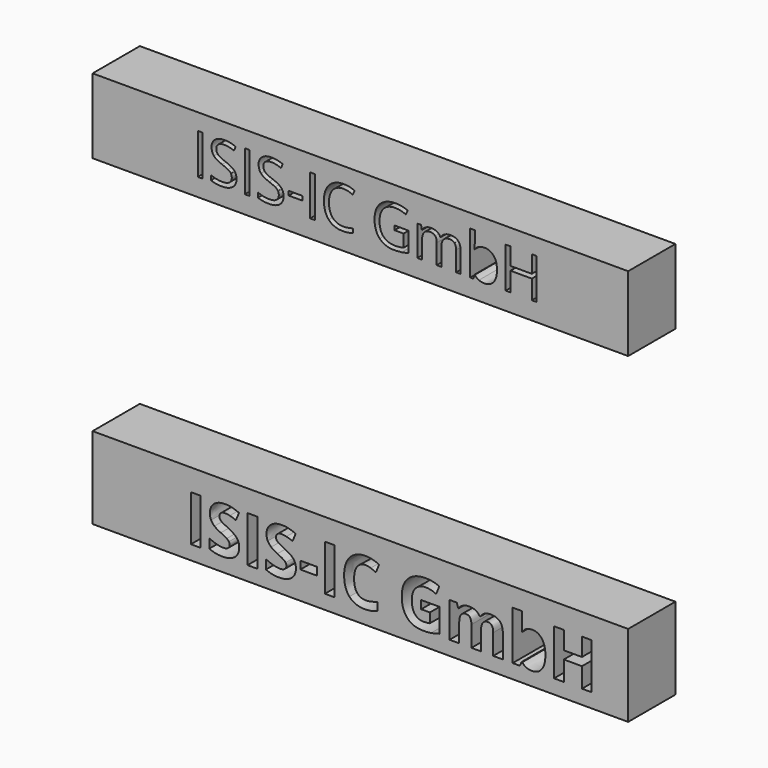
from build123d import *

# Parameters (mm, degrees)
F0_W     = 99.7226089239
F0_H     = 13.9147862792
F0_W_2   = 0.8780858625
F0_H_2   = 7.5555071671
F0_W_3   = 2.5366924917
F0_H_3   = 0.7854817037
F1_DEPTH = 11
F0_H_4   = 15.2399986982
F0_W_4   = 1.8113891286
F0_H_5   = 8.5410081823
F0_W_5   = 3.1367502145
F0_H_6   = 1.4599534669
F2_DEPTH = 11


with BuildPart() as f1:
    # F0 (on Front) → F1 (new body)
    with BuildSketch(Plane.XZ):
        with Locations((0, 37.106089294)):
            Rectangle(F0_W, F0_H)
        with Locations((-29.8307273891, 37.2394919614)):
            Rectangle(F0_W_2, F0_H_2, mode=Mode.SUBTRACT)
        with BuildLine():
            add(Edge.make_bspline(
                [(-23.5030521483, 36.7326495567), (-23.0565678115, 36.2464777233), (-23.0565678115, 35.4725715394)],
                knots=[0, 0, 0, 1, 1, 1], degree=2))
            add(Edge.make_bspline(
                [(-23.0565678115, 35.4725715394), (-23.0565678115, 34.4754231871), (-23.7800378018, 33.9164909431)],
                knots=[0, 0, 0, 1, 1, 1], degree=2))
            add(Edge.make_bspline(
                [(-23.7800378018, 33.9164909431), (-24.5035077921, 33.3575586992), (-25.7437420611, 33.3575586992)],
                knots=[0, 0, 0, 1, 1, 1], degree=2))
            add(Edge.make_bspline(
                [(-25.7437420611, 33.3575586992), (-27.0865023631, 33.3575586992), (-27.8107991762, 33.7048242945)],
                knots=[0, 0, 0, 1, 1, 1], degree=2))
            Line((-27.8107991762, 33.7048242945), (-27.8107991762, 34.5514908889))
            add(Edge.make_bspline(
                [(-27.8107991762, 34.5514908889), (-27.3444710911, 34.3563606972), (-26.797114367, 34.2422591445)],
                knots=[0, 0, 0, 1, 1, 1], degree=2))
            add(Edge.make_bspline(
                [(-26.797114367, 34.2422591445), (-26.2497576429, 34.1281575917), (-25.712322793, 34.1281575917)],
                knots=[0, 0, 0, 1, 1, 1], degree=2))
            add(Edge.make_bspline(
                [(-25.712322793, 34.1281575917), (-24.8342369305, 34.1281575917), (-24.3894062393, 34.4613671987)],
                knots=[0, 0, 0, 1, 1, 1], degree=2))
            add(Edge.make_bspline(
                [(-24.3894062393, 34.4613671987), (-23.9445755481, 34.7945768056), (-23.9445755481, 35.3898892548)],
                knots=[0, 0, 0, 1, 1, 1], degree=2))
            add(Edge.make_bspline(
                [(-23.9445755481, 35.3898892548), (-23.9445755481, 35.7818032838), (-24.1024987117, 36.0323306062)],
                knots=[0, 0, 0, 1, 1, 1], degree=2))
            add(Edge.make_bspline(
                [(-24.1024987117, 36.0323306062), (-24.2604218753, 36.2828579285), (-24.6300116875, 36.4953513999)],
                knots=[0, 0, 0, 1, 1, 1], degree=2))
            add(Edge.make_bspline(
                [(-24.6300116875, 36.4953513999), (-24.9996014997, 36.7078448714), (-25.7536639353, 36.9757354735)],
                knots=[0, 0, 0, 1, 1, 1], degree=2))
            add(Edge.make_bspline(
                [(-25.7536639353, 36.9757354735), (-26.8070362411, 37.3527666913), (-27.2593083379, 37.8695309701)],
                knots=[0, 0, 0, 1, 1, 1], degree=2))
            add(Edge.make_bspline(
                [(-27.2593083379, 37.8695309701), (-27.7115804347, 38.3862952488), (-27.7115804347, 39.2180790319)],
                knots=[0, 0, 0, 1, 1, 1], degree=2))
            add(Edge.make_bspline(
                [(-27.7115804347, 39.2180790319), (-27.7115804347, 40.0912039574), (-27.0559099178, 40.6079682361)],
                knots=[0, 0, 0, 1, 1, 1], degree=2))
            add(Edge.make_bspline(
                [(-27.0559099178, 40.6079682361), (-26.4002394009, 41.1247325149), (-25.3187551183, 41.1247325149)],
                knots=[0, 0, 0, 1, 1, 1], degree=2))
            add(Edge.make_bspline(
                [(-25.3187551183, 41.1247325149), (-24.1926224019, 41.1247325149), (-23.2467370661, 40.7113210919)],
                knots=[0, 0, 0, 1, 1, 1], degree=2))
            Line((-23.2467370661, 40.7113210919), (-23.521242251, 39.9473367822))
            add(Edge.make_bspline(
                [(-23.521242251, 39.9473367822), (-24.4572057127, 40.3392508112), (-25.3402525123, 40.3392508112)],
                knots=[0, 0, 0, 1, 1, 1], degree=2))
            add(Edge.make_bspline(
                [(-25.3402525123, 40.3392508112), (-26.0380909943, 40.3392508112), (-26.4308318462, 40.0399409409)],
                knots=[0, 0, 0, 1, 1, 1], degree=2))
            add(Edge.make_bspline(
                [(-26.4308318462, 40.0399409409), (-26.823572698, 39.7406310706), (-26.823572698, 39.2081571578)],
                knots=[0, 0, 0, 1, 1, 1], degree=2))
            add(Edge.make_bspline(
                [(-26.823572698, 39.2081571578), (-26.823572698, 38.8162431288), (-26.6788787, 38.5648889836)],
                knots=[0, 0, 0, 1, 1, 1], degree=2))
            add(Edge.make_bspline(
                [(-26.6788787, 38.5648889836), (-26.5341847019, 38.3135348384), (-26.190226398, 38.1043486583)],
                knots=[0, 0, 0, 1, 1, 1], degree=2))
            add(Edge.make_bspline(
                [(-26.190226398, 38.1043486583), (-25.846268094, 37.8951624783), (-25.1385077378, 37.6421546874)],
                knots=[0, 0, 0, 1, 1, 1], degree=2))
            add(Edge.make_bspline(
                [(-25.1385077378, 37.6421546874), (-23.9495364852, 37.2188213902), (-23.5030521483, 36.7326495567)],
                knots=[0, 0, 0, 1, 1, 1], degree=2))
        make_face(mode=Mode.SUBTRACT)
        with Locations((-21.0713661581, 37.2394919614)):
            Rectangle(F0_W_2, F0_H_2, mode=Mode.SUBTRACT)
        with BuildLine():
            add(Edge.make_bspline(
                [(-14.7436909174, 36.7326495567), (-14.2972065805, 36.2464777233), (-14.2972065805, 35.4725715394)],
                knots=[0, 0, 0, 1, 1, 1], degree=2))
            add(Edge.make_bspline(
                [(-14.2972065805, 35.4725715394), (-14.2972065805, 34.4754231871), (-15.0206765708, 33.9164909431)],
                knots=[0, 0, 0, 1, 1, 1], degree=2))
            add(Edge.make_bspline(
                [(-15.0206765708, 33.9164909431), (-15.7441465611, 33.3575586992), (-16.9843808302, 33.3575586992)],
                knots=[0, 0, 0, 1, 1, 1], degree=2))
            add(Edge.make_bspline(
                [(-16.9843808302, 33.3575586992), (-18.3271411321, 33.3575586992), (-19.0514379453, 33.7048242945)],
                knots=[0, 0, 0, 1, 1, 1], degree=2))
            Line((-19.0514379453, 33.7048242945), (-19.0514379453, 34.5514908889))
            add(Edge.make_bspline(
                [(-19.0514379453, 34.5514908889), (-18.5851098601, 34.3563606972), (-18.037753136, 34.2422591445)],
                knots=[0, 0, 0, 1, 1, 1], degree=2))
            add(Edge.make_bspline(
                [(-18.037753136, 34.2422591445), (-17.4903964119, 34.1281575917), (-16.952961562, 34.1281575917)],
                knots=[0, 0, 0, 1, 1, 1], degree=2))
            add(Edge.make_bspline(
                [(-16.952961562, 34.1281575917), (-16.0748756995, 34.1281575917), (-15.6300450083, 34.4613671987)],
                knots=[0, 0, 0, 1, 1, 1], degree=2))
            add(Edge.make_bspline(
                [(-15.6300450083, 34.4613671987), (-15.1852143172, 34.7945768056), (-15.1852143172, 35.3898892548)],
                knots=[0, 0, 0, 1, 1, 1], degree=2))
            add(Edge.make_bspline(
                [(-15.1852143172, 35.3898892548), (-15.1852143172, 35.7818032838), (-15.3431374808, 36.0323306062)],
                knots=[0, 0, 0, 1, 1, 1], degree=2))
            add(Edge.make_bspline(
                [(-15.3431374808, 36.0323306062), (-15.5010606444, 36.2828579285), (-15.8706504565, 36.4953513999)],
                knots=[0, 0, 0, 1, 1, 1], degree=2))
            add(Edge.make_bspline(
                [(-15.8706504565, 36.4953513999), (-16.2402402687, 36.7078448714), (-16.9943027043, 36.9757354735)],
                knots=[0, 0, 0, 1, 1, 1], degree=2))
            add(Edge.make_bspline(
                [(-16.9943027043, 36.9757354735), (-18.0476750102, 37.3527666913), (-18.499947107, 37.8695309701)],
                knots=[0, 0, 0, 1, 1, 1], degree=2))
            add(Edge.make_bspline(
                [(-18.499947107, 37.8695309701), (-18.9522192037, 38.3862952488), (-18.9522192037, 39.2180790319)],
                knots=[0, 0, 0, 1, 1, 1], degree=2))
            add(Edge.make_bspline(
                [(-18.9522192037, 39.2180790319), (-18.9522192037, 40.0912039574), (-18.2965486868, 40.6079682361)],
                knots=[0, 0, 0, 1, 1, 1], degree=2))
            add(Edge.make_bspline(
                [(-18.2965486868, 40.6079682361), (-17.6408781699, 41.1247325149), (-16.5593938873, 41.1247325149)],
                knots=[0, 0, 0, 1, 1, 1], degree=2))
            add(Edge.make_bspline(
                [(-16.5593938873, 41.1247325149), (-15.433261171, 41.1247325149), (-14.4873758351, 40.7113210919)],
                knots=[0, 0, 0, 1, 1, 1], degree=2))
            Line((-14.4873758351, 40.7113210919), (-14.76188102, 39.9473367822))
            add(Edge.make_bspline(
                [(-14.76188102, 39.9473367822), (-15.6978444817, 40.3392508112), (-16.5808912813, 40.3392508112)],
                knots=[0, 0, 0, 1, 1, 1], degree=2))
            add(Edge.make_bspline(
                [(-16.5808912813, 40.3392508112), (-17.2787297633, 40.3392508112), (-17.6714706152, 40.0399409409)],
                knots=[0, 0, 0, 1, 1, 1], degree=2))
            add(Edge.make_bspline(
                [(-17.6714706152, 40.0399409409), (-18.0642114671, 39.7406310706), (-18.0642114671, 39.2081571578)],
                knots=[0, 0, 0, 1, 1, 1], degree=2))
            add(Edge.make_bspline(
                [(-18.0642114671, 39.2081571578), (-18.0642114671, 38.8162431288), (-17.919517469, 38.5648889836)],
                knots=[0, 0, 0, 1, 1, 1], degree=2))
            add(Edge.make_bspline(
                [(-17.919517469, 38.5648889836), (-17.774823471, 38.3135348384), (-17.430865167, 38.1043486583)],
                knots=[0, 0, 0, 1, 1, 1], degree=2))
            add(Edge.make_bspline(
                [(-17.430865167, 38.1043486583), (-17.0869068631, 37.8951624783), (-16.3791465069, 37.6421546874)],
                knots=[0, 0, 0, 1, 1, 1], degree=2))
            add(Edge.make_bspline(
                [(-16.3791465069, 37.6421546874), (-15.1901752542, 37.2188213902), (-14.7436909174, 36.7326495567)],
                knots=[0, 0, 0, 1, 1, 1], degree=2))
        make_face(mode=Mode.SUBTRACT)
        with Locations((-12.0862822902, 36.2985675626)):
            Rectangle(F0_W_3, F0_H_3, mode=Mode.SUBTRACT)
        with Locations((-8.9071484472, 37.2394919614)):
            Rectangle(F0_W_2, F0_H_2, mode=Mode.SUBTRACT)
        with BuildLine():
            add(Edge.make_bspline(
                [(-1.4450722617, 39.937414908), (-2.3033143758, 40.3392508112), (-3.16155649, 40.3392508112)],
                knots=[0, 0, 0, 1, 1, 1], degree=2))
            add(Edge.make_bspline(
                [(-3.16155649, 40.3392508112), (-4.4067516962, 40.3392508112), (-5.1277412179, 39.5099474966)],
                knots=[0, 0, 0, 1, 1, 1], degree=2))
            add(Edge.make_bspline(
                [(-5.1277412179, 39.5099474966), (-5.8487307397, 38.680644182), (-5.8487307397, 37.2386651385)],
                knots=[0, 0, 0, 1, 1, 1], degree=2))
            add(Edge.make_bspline(
                [(-5.8487307397, 37.2386651385), (-5.8487307397, 35.7569985984), (-5.1533727262, 34.9475390321)],
                knots=[0, 0, 0, 1, 1, 1], degree=2))
            add(Edge.make_bspline(
                [(-5.1533727262, 34.9475390321), (-4.4580147126, 34.1380794659), (-3.1714783642, 34.1380794659)],
                knots=[0, 0, 0, 1, 1, 1], degree=2))
            add(Edge.make_bspline(
                [(-3.1714783642, 34.1380794659), (-2.3810357234, 34.1380794659), (-1.3673509141, 34.4225065249)],
                knots=[0, 0, 0, 1, 1, 1], degree=2))
            Line((-1.3673509141, 34.4225065249), (-1.3673509141, 33.6535612781))
            add(Edge.make_bspline(
                [(-1.3673509141, 33.6535612781), (-2.1528326179, 33.3575586992), (-3.3054236652, 33.3575586992)],
                knots=[0, 0, 0, 1, 1, 1], degree=2))
            add(Edge.make_bspline(
                [(-3.3054236652, 33.3575586992), (-4.9739521686, 33.3575586992), (-5.8809768307, 34.3712435085)],
                knots=[0, 0, 0, 1, 1, 1], degree=2))
            add(Edge.make_bspline(
                [(-5.8809768307, 34.3712435085), (-6.7880014928, 35.3849283177), (-6.7880014928, 37.2502406584)],
                knots=[0, 0, 0, 1, 1, 1], degree=2))
            add(Edge.make_bspline(
                [(-6.7880014928, 37.2502406584), (-6.7880014928, 38.417714517), (-6.3514390301, 39.2958003795)],
                knots=[0, 0, 0, 1, 1, 1], degree=2))
            add(Edge.make_bspline(
                [(-6.3514390301, 39.2958003795), (-5.9148765674, 40.173886242), (-5.0905341899, 40.6493093784)],
                knots=[0, 0, 0, 1, 1, 1], degree=2))
            add(Edge.make_bspline(
                [(-5.0905341899, 40.6493093784), (-4.2661918123, 41.1247325149), (-3.1499809702, 41.1247325149)],
                knots=[0, 0, 0, 1, 1, 1], degree=2))
            add(Edge.make_bspline(
                [(-3.1499809702, 41.1247325149), (-1.9626633633, 41.1247325149), (-1.0730019809, 40.6914773436)],
                knots=[0, 0, 0, 1, 1, 1], degree=2))
            Line((-1.0730019809, 40.6914773436), (-1.4450722617, 39.937414908))
        make_face(mode=Mode.SUBTRACT)
        with BuildLine():
            Line((6.3551744679, 36.6350844609), (6.3551744679, 37.4205661647))
            Line((6.3551744679, 37.4205661647), (8.9232862277, 37.4205661647))
            Line((8.9232862277, 37.4205661647), (8.9232862277, 33.7461654368))
            add(Edge.make_bspline(
                [(8.9232862277, 33.7461654368), (8.3230128415, 33.5543425366), (7.7028957069, 33.4559506179)],
                knots=[0, 0, 0, 1, 1, 1], degree=2))
            add(Edge.make_bspline(
                [(7.7028957069, 33.4559506179), (7.0827785724, 33.3575586992), (6.2658776005, 33.3575586992)],
                knots=[0, 0, 0, 1, 1, 1], degree=2))
            add(Edge.make_bspline(
                [(6.2658776005, 33.3575586992), (4.5510470178, 33.3575586992), (3.5952398078, 34.3786849141)],
                knots=[0, 0, 0, 1, 1, 1], degree=2))
            add(Edge.make_bspline(
                [(3.5952398078, 34.3786849141), (2.6394325978, 35.3998111289), (2.6394325978, 37.2386651385)],
                knots=[0, 0, 0, 1, 1, 1], degree=2))
            add(Edge.make_bspline(
                [(2.6394325978, 37.2386651385), (2.6394325978, 38.417714517), (3.1123752657, 39.3040686079)],
                knots=[0, 0, 0, 1, 1, 1], degree=2))
            add(Edge.make_bspline(
                [(3.1123752657, 39.3040686079), (3.5853179337, 40.1904226989), (4.4741524932, 40.6575776069)],
                knots=[0, 0, 0, 1, 1, 1], degree=2))
            add(Edge.make_bspline(
                [(4.4741524932, 40.6575776069), (5.3629870526, 41.1247325149), (6.5552655966, 41.1247325149)],
                knots=[0, 0, 0, 1, 1, 1], degree=2))
            add(Edge.make_bspline(
                [(6.5552655966, 41.1247325149), (7.7657342432, 41.1247325149), (8.8091846749, 40.6815554694)],
                knots=[0, 0, 0, 1, 1, 1], degree=2))
            Line((8.8091846749, 40.6815554694), (8.4685336624, 39.9059956399))
            add(Edge.make_bspline(
                [(8.4685336624, 39.9059956399), (7.444926979, 40.3392508112), (6.4990416431, 40.3392508112)],
                knots=[0, 0, 0, 1, 1, 1], degree=2))
            add(Edge.make_bspline(
                [(6.4990416431, 40.3392508112), (5.1199011359, 40.3392508112), (4.3443413063, 39.5182157251)],
                knots=[0, 0, 0, 1, 1, 1], degree=2))
            add(Edge.make_bspline(
                [(4.3443413063, 39.5182157251), (3.5687814767, 38.6971806389), (3.5687814767, 37.2386651385)],
                knots=[0, 0, 0, 1, 1, 1], degree=2))
            add(Edge.make_bspline(
                [(3.5687814767, 37.2386651385), (3.5687814767, 35.7090428733), (4.3154025067, 34.9186002325)],
                knots=[0, 0, 0, 1, 1, 1], degree=2))
            add(Edge.make_bspline(
                [(4.3154025067, 34.9186002325), (5.0620235367, 34.1281575917), (6.5089635173, 34.1281575917)],
                knots=[0, 0, 0, 1, 1, 1], degree=2))
            add(Edge.make_bspline(
                [(6.5089635173, 34.1281575917), (7.294445221, 34.1281575917), (8.0435467195, 34.3100586178)],
                knots=[0, 0, 0, 1, 1, 1], degree=2))
            Line((8.0435467195, 34.3100586178), (8.0435467195, 36.6350844609))
            Line((8.0435467195, 36.6350844609), (6.3551744679, 36.6350844609))
        make_face(mode=Mode.SUBTRACT)
        with BuildLine():
            Line((18.6831031024, 33.4617383778), (17.8265146339, 33.4617383778))
            Line((17.8265146339, 33.4617383778), (17.8265146339, 37.1460609798))
            add(Edge.make_bspline(
                [(17.8265146339, 37.1460609798), (17.8265146339, 37.8240557135), (17.5371266378, 38.1622262576)],
                knots=[0, 0, 0, 1, 1, 1], degree=2))
            add(Edge.make_bspline(
                [(17.5371266378, 38.1622262576), (17.2477386416, 38.5003968016), (16.6375433813, 38.5003968016)],
                knots=[0, 0, 0, 1, 1, 1], degree=2))
            add(Edge.make_bspline(
                [(16.6375433813, 38.5003968016), (15.8371788663, 38.5003968016), (15.4543598886, 38.0406832992)],
                knots=[0, 0, 0, 1, 1, 1], degree=2))
            add(Edge.make_bspline(
                [(15.4543598886, 38.0406832992), (15.0715409109, 37.5809697968), (15.0715409109, 36.6251625868)],
                knots=[0, 0, 0, 1, 1, 1], degree=2))
            Line((15.0715409109, 36.6251625868), (15.0715409109, 33.4617383778))
            Line((15.0715409109, 33.4617383778), (14.2132987967, 33.4617383778))
            Line((14.2132987967, 33.4617383778), (14.2132987967, 37.1460609798))
            add(Edge.make_bspline(
                [(14.2132987967, 37.1460609798), (14.2132987967, 37.8240557135), (13.9239108006, 38.1622262576)],
                knots=[0, 0, 0, 1, 1, 1], degree=2))
            add(Edge.make_bspline(
                [(13.9239108006, 38.1622262576), (13.6345228044, 38.5003968016), (13.019366607, 38.5003968016)],
                knots=[0, 0, 0, 1, 1, 1], degree=2))
            add(Edge.make_bspline(
                [(13.019366607, 38.5003968016), (12.2140411549, 38.5003968016), (11.8394904057, 38.0175322595)],
                knots=[0, 0, 0, 1, 1, 1], degree=2))
            add(Edge.make_bspline(
                [(11.8394904057, 38.0175322595), (11.4649396564, 37.5346677174), (11.4649396564, 36.4333396865)],
                knots=[0, 0, 0, 1, 1, 1], degree=2))
            Line((11.4649396564, 36.4333396865), (11.4649396564, 33.4617383778))
            Line((11.4649396564, 33.4617383778), (10.6066975422, 33.4617383778))
            Line((10.6066975422, 33.4617383778), (10.6066975422, 39.1254748732))
            Line((10.6066975422, 39.1254748732), (11.3045360243, 39.1254748732))
            Line((11.3045360243, 39.1254748732), (11.4434422624, 38.3499150436))
            Line((11.4434422624, 38.3499150436), (11.4847834047, 38.3499150436))
            add(Edge.make_bspline(
                [(11.4847834047, 38.3499150436), (11.7278693215, 38.7633264666), (12.1702195441, 38.9964905092)],
                knots=[0, 0, 0, 1, 1, 1], degree=2))
            add(Edge.make_bspline(
                [(12.1702195441, 38.9964905092), (12.6125697667, 39.2296545518), (13.1599264908, 39.2296545518)],
                knots=[0, 0, 0, 1, 1, 1], degree=2))
            add(Edge.make_bspline(
                [(13.1599264908, 39.2296545518), (14.4878039816, 39.2296545518), (14.8962544675, 38.267232759)],
                knots=[0, 0, 0, 1, 1, 1], degree=2))
            Line((14.8962544675, 38.267232759), (14.9375956098, 38.267232759))
            add(Edge.make_bspline(
                [(14.9375956098, 38.267232759), (15.1906034007, 38.7120634502), (15.6709874742, 38.970859001)],
                knots=[0, 0, 0, 1, 1, 1], degree=2))
            add(Edge.make_bspline(
                [(15.6709874742, 38.970859001), (16.1513715478, 39.2296545518), (16.7665277453, 39.2296545518)],
                knots=[0, 0, 0, 1, 1, 1], degree=2))
            add(Edge.make_bspline(
                [(16.7665277453, 39.2296545518), (17.7272958924, 39.2296545518), (18.2051994974, 38.7360413127)],
                knots=[0, 0, 0, 1, 1, 1], degree=2))
            add(Edge.make_bspline(
                [(18.2051994974, 38.7360413127), (18.6831031024, 38.2424280736), (18.6831031024, 37.1559828539)],
                knots=[0, 0, 0, 1, 1, 1], degree=2))
            Line((18.6831031024, 37.1559828539), (18.6831031024, 33.4617383778))
        make_face(mode=Mode.SUBTRACT)
        with BuildLine():
            add(Edge.make_bspline(
                [(21.3090924614, 38.3714124376), (21.9077122019, 39.2180790319), (23.0867615804, 39.2180790319)],
                knots=[0, 0, 0, 1, 1, 1], degree=2))
            add(Edge.make_bspline(
                [(23.0867615804, 39.2180790319), (24.2029724225, 39.2180790319), (24.8206090885, 38.4557483679)],
                knots=[0, 0, 0, 1, 1, 1], degree=2))
            add(Edge.make_bspline(
                [(24.8206090885, 38.4557483679), (25.4382457545, 37.6934177038), (25.4382457545, 36.2993943854)],
                knots=[0, 0, 0, 1, 1, 1], degree=2))
            add(Edge.make_bspline(
                [(25.4382457545, 36.2993943854), (25.4382457545, 34.9037174213), (24.8156481515, 34.1306380603)],
                knots=[0, 0, 0, 1, 1, 1], degree=2))
            add(Edge.make_bspline(
                [(24.8156481515, 34.1306380603), (24.1930505484, 33.3575586992), (23.0867615804, 33.3575586992)],
                knots=[0, 0, 0, 1, 1, 1], degree=2))
            add(Edge.make_bspline(
                [(23.0867615804, 33.3575586992), (22.5327902735, 33.3575586992), (22.0755572397, 33.5617839422)],
                knots=[0, 0, 0, 1, 1, 1], degree=2))
            add(Edge.make_bspline(
                [(22.0755572397, 33.5617839422), (21.6183242058, 33.7660091852), (21.3090924614, 34.190996128)],
                knots=[0, 0, 0, 1, 1, 1], degree=2))
            Line((21.3090924614, 34.190996128), (21.2462539251, 34.190996128))
            Line((21.2462539251, 34.190996128), (21.0660065447, 33.4617383778))
            Line((21.0660065447, 33.4617383778), (20.4508503472, 33.4617383778))
            Line((20.4508503472, 33.4617383778), (20.4508503472, 41.5034173784))
            Line((20.4508503472, 41.5034173784), (21.3090924614, 41.5034173784))
            Line((21.3090924614, 41.5034173784), (21.3090924614, 39.5488081704))
            add(Edge.make_bspline(
                [(21.3090924614, 39.5488081704), (21.3090924614, 38.8923108306), (21.2677513191, 38.3714124376)],
                knots=[0, 0, 0, 1, 1, 1], degree=2))
            Line((21.2677513191, 38.3714124376), (21.3090924614, 38.3714124376))
        make_face(mode=Mode.SUBTRACT)
        Polygon((32.8019300214, 41.0172455449), (32.8019300214, 33.4617383778), (31.9238441589, 33.4617383778), (31.9238441589, 37.0170766158), (27.943518978, 37.0170766158), (27.943518978, 33.4617383778), (27.0654331155, 33.4617383778), (27.0654331155, 41.0172455449), (27.943518978, 41.0172455449), (27.943518978, 37.8025583195), (31.9238441589, 37.8025583195), (31.9238441589, 41.0172455449), align=None, mode=Mode.SUBTRACT)
    extrude(amount=F1_DEPTH)


with BuildPart() as f2:
    # F0 (on Front) → F2 (new body)
    with BuildSketch(Plane.XZ):
        with Locations((0, -22.1973918378)):
            Rectangle(F0_W, F0_H_4)
        with Locations((-30.652911685, -22.8964529445)):
            Rectangle(F0_W_4, F0_H_5, mode=Mode.SUBTRACT)
        with BuildLine():
            add(Edge.make_bspline(
                [(-22.9998393501, -23.3843503259), (-22.5558714264, -23.9591719534), (-22.5558714264, -24.7947663192)],
                knots=[0, 0, 0, 1, 1, 1], degree=2))
            add(Edge.make_bspline(
                [(-22.5558714264, -24.7947663192), (-22.5558714264, -25.9518869288), (-23.3886617843, -26.6183061489)],
                knots=[0, 0, 0, 1, 1, 1], degree=2))
            add(Edge.make_bspline(
                [(-23.3886617843, -26.6183061489), (-24.2214521422, -27.2847253691), (-25.7038376727, -27.2847253691)],
                knots=[0, 0, 0, 1, 1, 1], degree=2))
            add(Edge.make_bspline(
                [(-25.7038376727, -27.2847253691), (-27.0721935469, -27.2847253691), (-28.1227618547, -26.7687879083)],
                knots=[0, 0, 0, 1, 1, 1], degree=2))
            Line((-28.1227618547, -26.7687879083), (-28.1227618547, -25.0863831449))
            add(Edge.make_bspline(
                [(-28.1227618547, -25.0863831449), (-27.2591274095, -25.4733362405), (-26.6600043799, -25.6303606851)],
                knots=[0, 0, 0, 1, 1, 1], degree=2))
            add(Edge.make_bspline(
                [(-26.6600043799, -25.6303606851), (-26.0608813502, -25.7873851297), (-25.5636372757, -25.7873851297)],
                knots=[0, 0, 0, 1, 1, 1], degree=2))
            add(Edge.make_bspline(
                [(-25.5636372757, -25.7873851297), (-24.9691875926, -25.7873851297), (-24.6504653569, -25.5602604866)],
                knots=[0, 0, 0, 1, 1, 1], degree=2))
            add(Edge.make_bspline(
                [(-24.6504653569, -25.5602604866), (-24.3317431212, -25.3331358435), (-24.3317431212, -24.8826252347)],
                knots=[0, 0, 0, 1, 1, 1], degree=2))
            add(Edge.make_bspline(
                [(-24.3317431212, -24.8826252347), (-24.3317431212, -24.6321338588), (-24.4719435181, -24.4358533031)],
                knots=[0, 0, 0, 1, 1, 1], degree=2))
            add(Edge.make_bspline(
                [(-24.4719435181, -24.4358533031), (-24.6121439151, -24.2395727473), (-24.8841326852, -24.0591815699)],
                knots=[0, 0, 0, 1, 1, 1], degree=2))
            add(Edge.make_bspline(
                [(-24.8841326852, -24.0591815699), (-25.1561214552, -23.8787903925), (-25.9917158211, -23.4806212652)],
                knots=[0, 0, 0, 1, 1, 1], degree=2))
            add(Edge.make_bspline(
                [(-25.9917158211, -23.4806212652), (-26.7730993667, -23.1123615558), (-27.1647258089, -22.7740112645)],
                knots=[0, 0, 0, 1, 1, 1], degree=2))
            add(Edge.make_bspline(
                [(-27.1647258089, -22.7740112645), (-27.556352251, -22.4356609732), (-27.7900195793, -21.9851503643)],
                knots=[0, 0, 0, 1, 1, 1], degree=2))
            add(Edge.make_bspline(
                [(-27.7900195793, -21.9851503643), (-28.0236869075, -21.5346397555), (-28.0236869075, -20.9345820565)],
                knots=[0, 0, 0, 1, 1, 1], degree=2))
            add(Edge.make_bspline(
                [(-28.0236869075, -20.9345820565), (-28.0236869075, -19.7998935105), (-27.2553887323, -19.1521676766)],
                knots=[0, 0, 0, 1, 1, 1], degree=2))
            add(Edge.make_bspline(
                [(-27.2553887323, -19.1521676766), (-26.487090557, -18.5044418427), (-25.1318200531, -18.5044418427)],
                knots=[0, 0, 0, 1, 1, 1], degree=2))
            add(Edge.make_bspline(
                [(-25.1318200531, -18.5044418427), (-24.4663355022, -18.5044418427), (-23.8616044567, -18.6614662873)],
                knots=[0, 0, 0, 1, 1, 1], degree=2))
            add(Edge.make_bspline(
                [(-23.8616044567, -18.6614662873), (-23.2568734112, -18.8184907319), (-22.5969968762, -19.1044995417)],
                knots=[0, 0, 0, 1, 1, 1], degree=2))
            Line((-22.5969968762, -19.1044995417), (-23.1802305275, -20.5139808657))
            add(Edge.make_bspline(
                [(-23.1802305275, -20.5139808657), (-23.8644084647, -20.2335800718), (-24.3111803963, -20.1223544235)],
                knots=[0, 0, 0, 1, 1, 1], degree=2))
            add(Edge.make_bspline(
                [(-24.3111803963, -20.1223544235), (-24.7579523279, -20.0111287753), (-25.1897695505, -20.0111287753)],
                knots=[0, 0, 0, 1, 1, 1], degree=2))
            add(Edge.make_bspline(
                [(-25.1897695505, -20.0111287753), (-25.7038376727, -20.0111287753), (-25.9786304507, -20.2504041194)],
                knots=[0, 0, 0, 1, 1, 1], degree=2))
            add(Edge.make_bspline(
                [(-25.9786304507, -20.2504041194), (-26.2534232287, -20.4896794635), (-26.2534232287, -20.8747632205)],
                knots=[0, 0, 0, 1, 1, 1], degree=2))
            add(Edge.make_bspline(
                [(-26.2534232287, -20.8747632205), (-26.2534232287, -21.1140385646), (-26.1421975805, -21.2925604034)],
                knots=[0, 0, 0, 1, 1, 1], degree=2))
            add(Edge.make_bspline(
                [(-26.1421975805, -21.2925604034), (-26.0309719322, -21.4710822422), (-25.7888925801, -21.6374533799)],
                knots=[0, 0, 0, 1, 1, 1], degree=2))
            add(Edge.make_bspline(
                [(-25.7888925801, -21.6374533799), (-25.5468132281, -21.8038245176), (-24.6420533331, -22.2356417402)],
                knots=[0, 0, 0, 1, 1, 1], degree=2))
            add(Edge.make_bspline(
                [(-24.6420533331, -22.2356417402), (-23.4438072738, -22.8095286984), (-22.9998393501, -23.3843503259)],
                knots=[0, 0, 0, 1, 1, 1], degree=2))
        make_face(mode=Mode.SUBTRACT)
        with Locations((-20.1023644798, -22.8964529445)):
            Rectangle(F0_W_4, F0_H_5, mode=Mode.SUBTRACT)
        with BuildLine():
            add(Edge.make_bspline(
                [(-12.4492921449, -23.3843503259), (-12.0053242212, -23.9591719534), (-12.0053242212, -24.7947663192)],
                knots=[0, 0, 0, 1, 1, 1], degree=2))
            add(Edge.make_bspline(
                [(-12.0053242212, -24.7947663192), (-12.0053242212, -25.9518869288), (-12.8381145791, -26.6183061489)],
                knots=[0, 0, 0, 1, 1, 1], degree=2))
            add(Edge.make_bspline(
                [(-12.8381145791, -26.6183061489), (-13.670904937, -27.2847253691), (-15.1532904674, -27.2847253691)],
                knots=[0, 0, 0, 1, 1, 1], degree=2))
            add(Edge.make_bspline(
                [(-15.1532904674, -27.2847253691), (-16.5216463417, -27.2847253691), (-17.5722146495, -26.7687879083)],
                knots=[0, 0, 0, 1, 1, 1], degree=2))
            Line((-17.5722146495, -26.7687879083), (-17.5722146495, -25.0863831449))
            add(Edge.make_bspline(
                [(-17.5722146495, -25.0863831449), (-16.7085802043, -25.4733362405), (-16.1094571746, -25.6303606851)],
                knots=[0, 0, 0, 1, 1, 1], degree=2))
            add(Edge.make_bspline(
                [(-16.1094571746, -25.6303606851), (-15.510334145, -25.7873851297), (-15.0130900705, -25.7873851297)],
                knots=[0, 0, 0, 1, 1, 1], degree=2))
            add(Edge.make_bspline(
                [(-15.0130900705, -25.7873851297), (-14.4186403874, -25.7873851297), (-14.0999181517, -25.5602604866)],
                knots=[0, 0, 0, 1, 1, 1], degree=2))
            add(Edge.make_bspline(
                [(-14.0999181517, -25.5602604866), (-13.7811959159, -25.3331358435), (-13.7811959159, -24.8826252347)],
                knots=[0, 0, 0, 1, 1, 1], degree=2))
            add(Edge.make_bspline(
                [(-13.7811959159, -24.8826252347), (-13.7811959159, -24.6321338588), (-13.9213963129, -24.4358533031)],
                knots=[0, 0, 0, 1, 1, 1], degree=2))
            add(Edge.make_bspline(
                [(-13.9213963129, -24.4358533031), (-14.0615967098, -24.2395727473), (-14.3335854799, -24.0591815699)],
                knots=[0, 0, 0, 1, 1, 1], degree=2))
            add(Edge.make_bspline(
                [(-14.3335854799, -24.0591815699), (-14.60557425, -23.8787903925), (-15.4411686158, -23.4806212652)],
                knots=[0, 0, 0, 1, 1, 1], degree=2))
            add(Edge.make_bspline(
                [(-15.4411686158, -23.4806212652), (-16.2225521615, -23.1123615558), (-16.6141786037, -22.7740112645)],
                knots=[0, 0, 0, 1, 1, 1], degree=2))
            add(Edge.make_bspline(
                [(-16.6141786037, -22.7740112645), (-17.0058050458, -22.4356609732), (-17.2394723741, -21.9851503643)],
                knots=[0, 0, 0, 1, 1, 1], degree=2))
            add(Edge.make_bspline(
                [(-17.2394723741, -21.9851503643), (-17.4731397023, -21.5346397555), (-17.4731397023, -20.9345820565)],
                knots=[0, 0, 0, 1, 1, 1], degree=2))
            add(Edge.make_bspline(
                [(-17.4731397023, -20.9345820565), (-17.4731397023, -19.7998935105), (-16.704841527, -19.1521676766)],
                knots=[0, 0, 0, 1, 1, 1], degree=2))
            add(Edge.make_bspline(
                [(-16.704841527, -19.1521676766), (-15.9365433517, -18.5044418427), (-14.5812728479, -18.5044418427)],
                knots=[0, 0, 0, 1, 1, 1], degree=2))
            add(Edge.make_bspline(
                [(-14.5812728479, -18.5044418427), (-13.915788297, -18.5044418427), (-13.3110572515, -18.6614662873)],
                knots=[0, 0, 0, 1, 1, 1], degree=2))
            add(Edge.make_bspline(
                [(-13.3110572515, -18.6614662873), (-12.706326206, -18.8184907319), (-12.046449671, -19.1044995417)],
                knots=[0, 0, 0, 1, 1, 1], degree=2))
            Line((-12.046449671, -19.1044995417), (-12.6296833223, -20.5139808657))
            add(Edge.make_bspline(
                [(-12.6296833223, -20.5139808657), (-13.3138612594, -20.2335800718), (-13.760633191, -20.1223544235)],
                knots=[0, 0, 0, 1, 1, 1], degree=2))
            add(Edge.make_bspline(
                [(-13.760633191, -20.1223544235), (-14.2074051227, -20.0111287753), (-14.6392223453, -20.0111287753)],
                knots=[0, 0, 0, 1, 1, 1], degree=2))
            add(Edge.make_bspline(
                [(-14.6392223453, -20.0111287753), (-15.1532904674, -20.0111287753), (-15.4280832454, -20.2504041194)],
                knots=[0, 0, 0, 1, 1, 1], degree=2))
            add(Edge.make_bspline(
                [(-15.4280832454, -20.2504041194), (-15.7028760235, -20.4896794635), (-15.7028760235, -20.8747632205)],
                knots=[0, 0, 0, 1, 1, 1], degree=2))
            add(Edge.make_bspline(
                [(-15.7028760235, -20.8747632205), (-15.7028760235, -21.1140385646), (-15.5916503752, -21.2925604034)],
                knots=[0, 0, 0, 1, 1, 1], degree=2))
            add(Edge.make_bspline(
                [(-15.5916503752, -21.2925604034), (-15.480424727, -21.4710822422), (-15.2383453749, -21.6374533799)],
                knots=[0, 0, 0, 1, 1, 1], degree=2))
            add(Edge.make_bspline(
                [(-15.2383453749, -21.6374533799), (-14.9962660228, -21.8038245176), (-14.0915061278, -22.2356417402)],
                knots=[0, 0, 0, 1, 1, 1], degree=2))
            add(Edge.make_bspline(
                [(-14.0915061278, -22.2356417402), (-12.8932600686, -22.8095286984), (-12.4492921449, -23.3843503259)],
                knots=[0, 0, 0, 1, 1, 1], degree=2))
        make_face(mode=Mode.SUBTRACT)
        with Locations((-9.606962764, -23.9601066227)):
            Rectangle(F0_W_5, F0_H_6, mode=Mode.SUBTRACT)
        with Locations((-5.7028490436, -22.8964529445)):
            Rectangle(F0_W_4, F0_H_5, mode=Mode.SUBTRACT)
        with BuildLine():
            add(Edge.make_bspline(
                [(1.9324645744, -20.1803039209), (1.4483058702, -20.0111287753), (0.9809712137, -20.0111287753)],
                knots=[0, 0, 0, 1, 1, 1], degree=2))
            add(Edge.make_bspline(
                [(0.9809712137, -20.0111287753), (-0.0415570147, -20.0111287753), (-0.6023586025, -20.7794269506)],
                knots=[0, 0, 0, 1, 1, 1], degree=2))
            add(Edge.make_bspline(
                [(-0.6023586025, -20.7794269506), (-1.1631601903, -21.5477251259), (-1.1631601903, -22.9198196774)],
                knots=[0, 0, 0, 1, 1, 1], degree=2))
            add(Edge.make_bspline(
                [(-1.1631601903, -22.9198196774), (-1.1631601903, -25.7761690979), (0.9809712137, -25.7761690979)],
                knots=[0, 0, 0, 1, 1, 1], degree=2))
            add(Edge.make_bspline(
                [(0.9809712137, -25.7761690979), (1.8801230928, -25.7761690979), (3.158750713, -25.3275278277)],
                knots=[0, 0, 0, 1, 1, 1], degree=2))
            Line((3.158750713, -25.3275278277), (3.158750713, -26.845430792))
            add(Edge.make_bspline(
                [(3.158750713, -26.845430792), (2.1081824052, -27.2847253691), (0.8108613988, -27.2847253691)],
                knots=[0, 0, 0, 1, 1, 1], degree=2))
            add(Edge.make_bspline(
                [(0.8108613988, -27.2847253691), (-1.0528692114, -27.2847253691), (-2.0398800059, -26.1537755004)],
                knots=[0, 0, 0, 1, 1, 1], degree=2))
            add(Edge.make_bspline(
                [(-2.0398800059, -26.1537755004), (-3.0268908005, -25.0228256316), (-3.0268908005, -22.9086036456)],
                knots=[0, 0, 0, 1, 1, 1], degree=2))
            add(Edge.make_bspline(
                [(-3.0268908005, -22.9086036456), (-3.0268908005, -21.5757652052), (-2.541797427, -20.5737997017)],
                knots=[0, 0, 0, 1, 1, 1], degree=2))
            add(Edge.make_bspline(
                [(-2.541797427, -20.5737997017), (-2.0567040536, -19.5718341982), (-1.1482054813, -19.0381380204)],
                knots=[0, 0, 0, 1, 1, 1], degree=2))
            add(Edge.make_bspline(
                [(-1.1482054813, -19.0381380204), (-0.2397069091, -18.5044418427), (0.9809712137, -18.5044418427)],
                knots=[0, 0, 0, 1, 1, 1], degree=2))
            add(Edge.make_bspline(
                [(0.9809712137, -18.5044418427), (2.2240814, -18.5044418427), (3.4802769567, -19.1044995417)],
                knots=[0, 0, 0, 1, 1, 1], degree=2))
            Line((3.4802769567, -19.1044995417), (2.8970433054, -20.577538379))
            add(Edge.make_bspline(
                [(2.8970433054, -20.577538379), (2.4166232785, -20.3494790666), (1.9324645744, -20.1803039209)],
                knots=[0, 0, 0, 1, 1, 1], degree=2))
        make_face(mode=Mode.SUBTRACT)
        with BuildLine():
            Line((11.3258911701, -23.8787903925), (11.3258911701, -22.3702341213))
            Line((11.3258911701, -22.3702341213), (14.7150020991, -22.3702341213))
            Line((14.7150020991, -22.3702341213), (14.7150020991, -26.7986973263))
            add(Edge.make_bspline(
                [(14.7150020991, -26.7986973263), (13.890623765, -27.0678820885), (13.1634510395, -27.1763037288)],
                knots=[0, 0, 0, 1, 1, 1], degree=2))
            add(Edge.make_bspline(
                [(13.1634510395, -27.1763037288), (12.4362783139, -27.2847253691), (11.6773268318, -27.2847253691)],
                knots=[0, 0, 0, 1, 1, 1], degree=2))
            add(Edge.make_bspline(
                [(11.6773268318, -27.2847253691), (9.7444306925, -27.2847253691), (8.724706472, -26.1481674845)],
                knots=[0, 0, 0, 1, 1, 1], degree=2))
            add(Edge.make_bspline(
                [(8.724706472, -26.1481674845), (7.7049822515, -25.0116095999), (7.7049822515, -22.8843022435)],
                knots=[0, 0, 0, 1, 1, 1], degree=2))
            add(Edge.make_bspline(
                [(7.7049822515, -22.8843022435), (7.7049822515, -20.8168137231), (8.8882736018, -19.6606277829)],
                knots=[0, 0, 0, 1, 1, 1], degree=2))
            add(Edge.make_bspline(
                [(8.8882736018, -19.6606277829), (10.071564952, -18.5044418427), (12.1670935518, -18.5044418427)],
                knots=[0, 0, 0, 1, 1, 1], degree=2))
            add(Edge.make_bspline(
                [(12.1670935518, -18.5044418427), (13.4831079445, -18.5044418427), (14.7037860673, -19.0297259966)],
                knots=[0, 0, 0, 1, 1, 1], degree=2))
            Line((14.7037860673, -19.0297259966), (14.1018590297, -20.4784634318))
            add(Edge.make_bspline(
                [(14.1018590297, -20.4784634318), (13.1671897167, -20.0111287753), (12.15587752, -20.0111287753)],
                knots=[0, 0, 0, 1, 1, 1], degree=2))
            add(Edge.make_bspline(
                [(12.15587752, -20.0111287753), (10.9819328629, -20.0111287753), (10.2753228623, -20.7999896754)],
                knots=[0, 0, 0, 1, 1, 1], degree=2))
            add(Edge.make_bspline(
                [(10.2753228623, -20.7999896754), (9.5687128616, -21.5888505756), (9.5687128616, -22.9198196774)],
                knots=[0, 0, 0, 1, 1, 1], degree=2))
            add(Edge.make_bspline(
                [(9.5687128616, -22.9198196774), (9.5687128616, -24.3106076151), (10.1379264733, -25.0433883565)],
                knots=[0, 0, 0, 1, 1, 1], degree=2))
            add(Edge.make_bspline(
                [(10.1379264733, -25.0433883565), (10.7071400849, -25.7761690979), (11.7932258266, -25.7761690979)],
                knots=[0, 0, 0, 1, 1, 1], degree=2))
            add(Edge.make_bspline(
                [(11.7932258266, -25.7761690979), (12.3615047689, -25.7761690979), (12.9447384202, -25.6602701031)],
                knots=[0, 0, 0, 1, 1, 1], degree=2))
            Line((12.9447384202, -25.6602701031), (12.9447384202, -23.8787903925))
            Line((12.9447384202, -23.8787903925), (11.3258911701, -23.8787903925))
        make_face(mode=Mode.SUBTRACT)
        with BuildLine():
            Line((22.4540640108, -23.8900064243), (22.4540640108, -27.1669570357))
            Line((22.4540640108, -27.1669570357), (20.6725843002, -27.1669570357))
            Line((20.6725843002, -27.1669570357), (20.6725843002, -23.3516369))
            add(Edge.make_bspline(
                [(20.6725843002, -23.3516369), (20.6725843002, -22.6450268993), (20.436112964, -22.291721899)],
                knots=[0, 0, 0, 1, 1, 1], degree=2))
            add(Edge.make_bspline(
                [(20.436112964, -22.291721899), (20.1996416278, -21.9384168987), (19.6911815215, -21.9384168987)],
                knots=[0, 0, 0, 1, 1, 1], degree=2))
            add(Edge.make_bspline(
                [(19.6911815215, -21.9384168987), (19.0070035844, -21.9384168987), (18.6976280418, -22.4412689891)],
                knots=[0, 0, 0, 1, 1, 1], degree=2))
            add(Edge.make_bspline(
                [(18.6976280418, -22.4412689891), (18.3882524992, -22.9441210795), (18.3882524992, -24.0937643345)],
                knots=[0, 0, 0, 1, 1, 1], degree=2))
            Line((18.3882524992, -24.0937643345), (18.3882524992, -27.1669570357))
            Line((18.3882524992, -27.1669570357), (16.6067727886, -27.1669570357))
            Line((16.6067727886, -27.1669570357), (16.6067727886, -20.6354878764))
            Line((16.6067727886, -20.6354878764), (17.9676513083, -20.6354878764))
            Line((17.9676513083, -20.6354878764), (18.2069266525, -21.4710822422))
            Line((18.2069266525, -21.4710822422), (18.3060015996, -21.4710822422))
            add(Edge.make_bspline(
                [(18.3060015996, -21.4710822422), (18.5695783459, -21.0205716333), (19.0658877511, -20.7672762495)],
                knots=[0, 0, 0, 1, 1, 1], degree=2))
            add(Edge.make_bspline(
                [(19.0658877511, -20.7672762495), (19.5621971563, -20.5139808657), (20.2052496437, -20.5139808657)],
                knots=[0, 0, 0, 1, 1, 1], degree=2))
            add(Edge.make_bspline(
                [(20.2052496437, -20.5139808657), (21.6708111265, -20.5139808657), (22.1923566031, -21.4710822422)],
                knots=[0, 0, 0, 1, 1, 1], degree=2))
            Line((22.1923566031, -21.4710822422), (22.3493810477, -21.4710822422))
            add(Edge.make_bspline(
                [(22.3493810477, -21.4710822422), (22.612957794, -21.0149636174), (23.1232872389, -20.7644722416)],
                knots=[0, 0, 0, 1, 1, 1], degree=2))
            add(Edge.make_bspline(
                [(23.1232872389, -20.7644722416), (23.6336166838, -20.5139808657), (24.2766691711, -20.5139808657)],
                knots=[0, 0, 0, 1, 1, 1], degree=2))
            add(Edge.make_bspline(
                [(24.2766691711, -20.5139808657), (25.387056315, -20.5139808657), (25.9562699266, -21.0831944773)],
                knots=[0, 0, 0, 1, 1, 1], degree=2))
            add(Edge.make_bspline(
                [(25.9562699266, -21.0831944773), (26.5254835382, -21.6524080889), (26.5254835382, -22.9086036456)],
                knots=[0, 0, 0, 1, 1, 1], degree=2))
            Line((26.5254835382, -22.9086036456), (26.5254835382, -27.1669570357))
            Line((26.5254835382, -27.1669570357), (24.7383958118, -27.1669570357))
            Line((24.7383958118, -27.1669570357), (24.7383958118, -23.3516369))
            add(Edge.make_bspline(
                [(24.7383958118, -23.3516369), (24.7383958118, -22.6450268993), (24.5019244756, -22.291721899)],
                knots=[0, 0, 0, 1, 1, 1], degree=2))
            add(Edge.make_bspline(
                [(24.5019244756, -22.291721899), (24.2654531394, -21.9384168987), (23.7569930331, -21.9384168987)],
                knots=[0, 0, 0, 1, 1, 1], degree=2))
            add(Edge.make_bspline(
                [(23.7569930331, -21.9384168987), (23.102724514, -21.9384168987), (22.7783942624, -22.4057515552)],
                knots=[0, 0, 0, 1, 1, 1], degree=2))
            add(Edge.make_bspline(
                [(22.7783942624, -22.4057515552), (22.4540640108, -22.8730862117), (22.4540640108, -23.8900064243)],
                knots=[0, 0, 0, 1, 1, 1], degree=2))
        make_face(mode=Mode.SUBTRACT)
        with BuildLine():
            add(Edge.make_bspline(
                [(30.1351764251, -21.4822982739), (30.7614048648, -20.5139808657), (31.9876910035, -20.5139808657)],
                knots=[0, 0, 0, 1, 1, 1], degree=2))
            add(Edge.make_bspline(
                [(31.9876910035, -20.5139808657), (33.144811613, -20.5139808657), (33.7990801321, -21.4159367527)],
                knots=[0, 0, 0, 1, 1, 1], degree=2))
            add(Edge.make_bspline(
                [(33.7990801321, -21.4159367527), (34.4533486512, -22.3178926398), (34.4533486512, -23.8900064243)],
                knots=[0, 0, 0, 1, 1, 1], degree=2))
            add(Edge.make_bspline(
                [(34.4533486512, -23.8900064243), (34.4533486512, -25.5069843358), (33.7785174072, -26.3958548524)],
                knots=[0, 0, 0, 1, 1, 1], degree=2))
            add(Edge.make_bspline(
                [(33.7785174072, -26.3958548524), (33.1036861632, -27.2847253691), (31.9409575378, -27.2847253691)],
                knots=[0, 0, 0, 1, 1, 1], degree=2))
            add(Edge.make_bspline(
                [(31.9409575378, -27.2847253691), (30.7894449442, -27.2847253691), (30.1351764251, -26.4491310033)],
                knots=[0, 0, 0, 1, 1, 1], degree=2))
            Line((30.1351764251, -26.4491310033), (30.0136694144, -26.4491310033))
            Line((30.0136694144, -26.4491310033), (29.7145752342, -27.1669570357))
            Line((29.7145752342, -27.1669570357), (28.3536967145, -27.1669570357))
            Line((28.3536967145, -27.1669570357), (28.3536967145, -18.0763632973))
            Line((28.3536967145, -18.0763632973), (30.1351764251, -18.0763632973))
            Line((30.1351764251, -18.0763632973), (30.1351764251, -20.192454622))
            add(Edge.make_bspline(
                [(30.1351764251, -20.192454622), (30.1351764251, -20.5943624266), (30.0660108959, -21.4822982739)],
                knots=[0, 0, 0, 1, 1, 1], degree=2))
            Line((30.0660108959, -21.4822982739), (30.1351764251, -21.4822982739))
        make_face(mode=Mode.SUBTRACT)
        Polygon((43.0635223626, -18.6259488534), (43.0635223626, -27.1669570357), (41.2577412499, -27.1669570357), (41.2577412499, -23.4806212652), (37.8761076754, -23.4806212652), (37.8761076754, -27.1669570357), (36.0647185468, -27.1669570357), (36.0647185468, -18.6259488534), (37.8761076754, -18.6259488534), (37.8761076754, -21.9739343326), (41.2577412499, -21.9739343326), (41.2577412499, -18.6259488534), align=None, mode=Mode.SUBTRACT)
    extrude(amount=F2_DEPTH)


solid = Compound([f1.part, f2.part])
